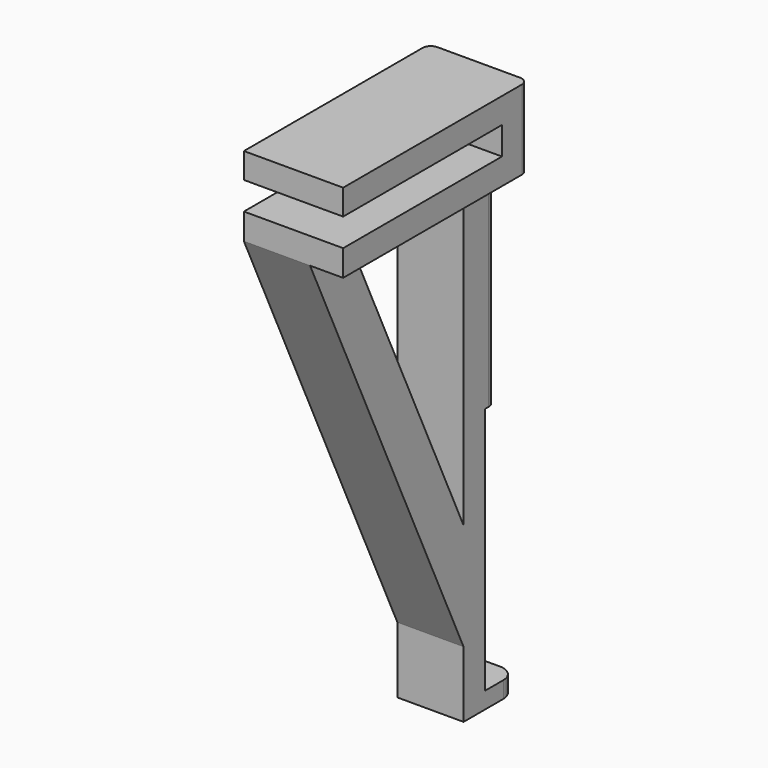
from build123d import *

# Parameters (mm, degrees)
F0_W     = 30
F0_H     = 70
F1_DEPTH = 24
F2_W     = 60
F2_H     = 8.4
F3_DEPTH = 30.001
F5_DEPTH = 20
F6_W     = 20
F6_H     = 5
F7_DEPTH = 8
F9_DEPTH = 75
F10_R    = 5
F11_R    = 2.5
F12_R    = 2.5


with BuildPart() as f1:
    # F0 (on Top) → F1 (new body)
    with BuildSketch(Plane.XY):
        with Locations((15, -35)):
            Rectangle(F0_W, F0_H)
    extrude(amount=F1_DEPTH)

    # F2 (on face) → F3 (cut, through all)
    with BuildSketch(Plane(origin=(0, 0, 0), x_dir=(0, -1, 0), z_dir=(-1, 0, 0))):
        with Locations((40, 12.1)):
            Rectangle(F2_W, F2_H)
    extrude(amount=-F3_DEPTH, mode=Mode.SUBTRACT)

    # F4 (on Right) → F5 (join)
    with BuildSketch(Plane.YZ):
        Polygon((0, -145), (0, 0), (-12, 0), (-12, -92.6724137931), (-12, -125), (-12, -145), align=None)
        Polygon((-12, -125), (-12, -92.6724137931), (-55, 0), (-70, 0), align=None)
    extrude(amount=F5_DEPTH)

    # F6 (on face) → F7 (join)
    with BuildSketch(Plane(origin=(0, 0, 0), x_dir=(-1, 0, 0), z_dir=(0, 1, 0))):
        with Locations((-10, -142.5)):
            Rectangle(F6_W, F6_H)
    extrude(amount=F7_DEPTH)

    # F8 (on face) → F9 (cut)
    with BuildSketch(Plane.XY.offset(-140)):
        with BuildLine():
            ThreePointArc((0, -3.8196601125), (4.647668654, -0.9874146153), (10.0000000012, 0))
            Line((10.0000000012, 0), (0, 0))
            Line((0, 0), (0, -3.8196601125))
        make_face()
        with BuildLine():
            ThreePointArc((10.0000000012, 0), (15.6425875311, -1.1017552924), (20.4562749714, -4.2451725387))
            Line((20.4562749714, -4.2451725387), (20.4562749714, 0))
            Line((20.4562749714, 0), (20, 0))
            Line((20, 0), (10.0000000012, 0))
        make_face()
    extrude(amount=F9_DEPTH, mode=Mode.SUBTRACT)

    # F10
    f10_edges = [f1.edges().sort_by_distance(p)[0] for p in [
        (0, 8, -142.5),
        (20, 8, -142.5),
    ]]
    fillet(f10_edges, radius=F10_R)

    # F11
    f11_edges = [f1.edges().sort_by_distance(p)[0] for p in [
        (0, 0, -20.5),
        (20, 0, -32.5),
    ]]
    fillet(f11_edges, radius=F11_R)

    # F12
    f12_edges = [f1.edges().sort_by_distance(p)[0] for p in [
        (30, 0, 12),
    ]]
    fillet(f12_edges, radius=F12_R)


solid = f1.part
